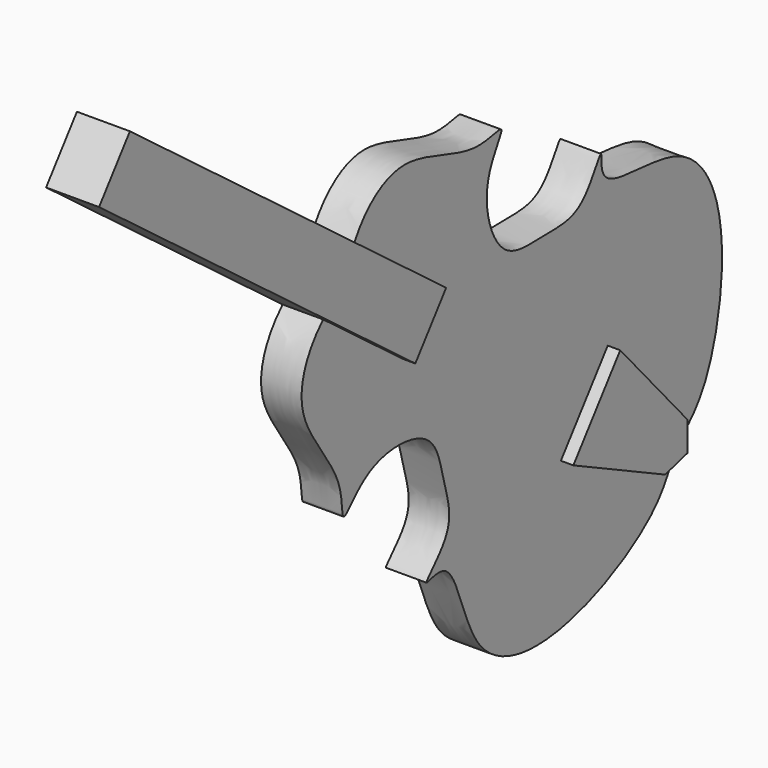
from build123d import *

# Parameters (mm, degrees)
F2_DEPTH = 130
F3_DEPTH = 40


with BuildPart() as f2:
    # F1 (on offset) → F2 (new body)
    with BuildSketch(Plane.YZ.offset(813)):
        with BuildLine():
            Line((999.4249142579, -612.4519876607), (698.8055633336, -385.4921267711))
            add(Edge.make_bspline(
                [(698.8055633336, -385.4921267711), (671.1060649287, -406.2552542845), (643.0647572284, -427.7089960644), (617.7663844082, -452.8637702217)],
                knots=[0, 0, 0, 0, 0.0421401226, 0.0421401226, 0.0421401226, 0.0421401226], degree=3))
            Line((617.7663844082, -452.8637702217), (937.6058578491, -694.3343281746))
            Line((937.6058578491, -694.3343281746), (999.4249142579, -612.4519876607))
        make_face()
        with BuildLine():
            add(Edge.make_bspline(
                [(698.8055633336, -385.4921267711), (711.1878910758, -353.1649302378), (724.1408029752, -320.3198385615), (741.4044972257, -289.0990891938)],
                knots=[0, 0, 0, 0, 0.0421401226, 0.0421401226, 0.0421401226, 0.0421401226], degree=3))
            Line((698.8055633336, -385.4921267711), (999.4249142579, -612.4519876607))
            Line((999.4249142579, -612.4519876607), (1061.2439706666, -530.5696471467))
            Line((1061.2439706666, -530.5696471467), (741.4044972257, -289.0990891938))
        make_face()
        with BuildLine():
            add(Edge.make_bspline(
                [(698.8055633336, -385.4921267711), (671.1060649287, -406.2552542845), (643.0647572284, -427.7089960644), (617.7663844082, -452.8637702217)],
                knots=[0, 0, 0, 0, 0.0421401226, 0.0421401226, 0.0421401226, 0.0421401226], degree=3))
            add(Edge.make_bspline(
                [(698.8055633336, -385.4921267711), (711.1878910758, -353.1649302378), (724.1408029752, -320.3198385615), (741.4044972257, -289.0990891938)],
                knots=[0, 0, 0, 0, 0.0421401226, 0.0421401226, 0.0421401226, 0.0421401226], degree=3))
            Line((741.4044972257, -289.0990891938), (-207.1507677691, 427.0356849894))
            Line((-207.1507677691, 427.0356849894), (-330.7888805866, 263.2710039616))
            Line((-330.7888805866, 263.2710039616), (617.7663844082, -452.8637702217))
        make_face()
        with BuildLine():
            Line((937.6058578491, -694.3343281746), (617.7663844082, -452.8637702217))
            add(Edge.make_bspline(
                [(617.7663844082, -452.8637702217), (603.0674773299, -467.4792433409), (549.2514497202, -529.4693534497), (490.6647836644, -702.8399085595), (708.4098224903, -916.2886762529), (683.0869697858, -1094.3199248133), (794.2669195154, -917.1650156598), (1069.4394474877, -925.4890505955), (1096.4924204543, -1111.0317747842), (1154.712954874, -1256.8577106118), (983.9739857051, -1395.4606408759), (1150.6119749013, -1308.7232329881), (1193.2087810732, -1689.4015206404), (1561.1895868227, -1762.9021480073), (1954.0726253167, -1564.5585240428), (2005.8582656762, -1443.7150180549), (2030.1766318652, -1390.6429647901)],
                knots=[0.0421401226, 0.0421401226, 0.0421401226, 0.0421401226, 0.0666244541, 0.1378096348, 0.2262665584, 0.2770870858, 0.3359332638, 0.4143950395, 0.4795526619, 0.5436961645, 0.6020074764, 0.6446780384, 0.7327918365, 0.8262307087, 0.9312623714, 1, 1, 1, 1], degree=3))
            Line((2030.1766318652, -1390.6429647901), (1939.6473169327, -1415.4891967773))
            Line((1939.6473169327, -1415.4891967773), (1571.457028389, -1239.642739296))
            Line((1571.457028389, -1239.642739296), (1665.383026604, -1115.2331960946))
            Line((1665.383026604, -1115.2331960946), (999.4249142579, -612.4519876607))
            Line((999.4249142579, -612.4519876607), (937.6058578491, -694.3343281746))
        make_face()
        with BuildLine():
            Line((1061.2439706666, -530.5696471467), (999.4249142579, -612.4519876607))
            Line((999.4249142579, -612.4519876607), (1665.383026604, -1115.2331960946))
            Line((1665.383026604, -1115.2331960946), (1759.309024819, -990.8236528932))
            Line((1759.309024819, -990.8236528932), (2029.2770465357, -1296.7702698659))
            Line((2029.2770465357, -1296.7702698659), (2030.1766318652, -1390.6429647901))
            add(Edge.make_bspline(
                [(741.4044972257, -289.0990891938), (751.4350805925, -270.9591520077), (796.3146055209, -202.2222127305), (947.0086286071, -98.3903379294), (1211.9345660626, -249.3457155295), (1376.2219005794, -176.2290686529), (1236.2933644927, -331.6795361585), (1319.6679138823, -594.049302371), (1505.5250417137, -569.248216106), (1661.720876251, -585.3011118349), (1748.2586788817, -383.1284712861), (1710.4797713339, -567.1511642208), (2088.2677129737, -503.8525249179), (2259.7463213881, -837.6298496116), (2176.5968768356, -1269.814353006), (2074.5584447499, -1352.7182966057), (2030.1766318652, -1390.6429647901)],
                knots=[0.0421401226, 0.0421401226, 0.0421401226, 0.0421401226, 0.0666244541, 0.1378096348, 0.2262665584, 0.2770870858, 0.3359332638, 0.4143950395, 0.4795526619, 0.5436961645, 0.6020074764, 0.6446780384, 0.7327918365, 0.8262307087, 0.9312623714, 1, 1, 1, 1], degree=3))
            Line((741.4044972257, -289.0990891938), (1061.2439706666, -530.5696471467))
        make_face()
        Polygon((1939.6473169327, -1415.4891967773), (2030.1766318652, -1390.6429647901), (1665.383026604, -1115.2331960946), (1571.457028389, -1239.642739296), align=None)
        Polygon((1665.383026604, -1115.2331960946), (2030.1766318652, -1390.6429647901), (2029.2770465357, -1296.7702698659), (1759.309024819, -990.8236528932), align=None)
    extrude(amount=-F2_DEPTH)

    # F1 (on offset) → F3 (join)
    with BuildSketch(Plane.YZ.offset(813)):
        Polygon((1665.383026604, -1115.2331960946), (2030.1766318652, -1390.6429647901), (2029.2770465357, -1296.7702698659), (1759.309024819, -990.8236528932), align=None)
        Polygon((1939.6473169327, -1415.4891967773), (2030.1766318652, -1390.6429647901), (1665.383026604, -1115.2331960946), (1571.457028389, -1239.642739296), align=None)
        with BuildLine():
            add(Edge.make_bspline(
                [(698.8055633336, -385.4921267711), (671.1060649287, -406.2552542845), (643.0647572284, -427.7089960644), (617.7663844082, -452.8637702217)],
                knots=[0, 0, 0, 0, 0.0421401226, 0.0421401226, 0.0421401226, 0.0421401226], degree=3))
            add(Edge.make_bspline(
                [(698.8055633336, -385.4921267711), (711.1878910758, -353.1649302378), (724.1408029752, -320.3198385615), (741.4044972257, -289.0990891938)],
                knots=[0, 0, 0, 0, 0.0421401226, 0.0421401226, 0.0421401226, 0.0421401226], degree=3))
            Line((741.4044972257, -289.0990891938), (-207.1507677691, 427.0356849894))
            Line((-207.1507677691, 427.0356849894), (-330.7888805866, 263.2710039616))
            Line((-330.7888805866, 263.2710039616), (617.7663844082, -452.8637702217))
        make_face()
        with BuildLine():
            add(Edge.make_bspline(
                [(698.8055633336, -385.4921267711), (711.1878910758, -353.1649302378), (724.1408029752, -320.3198385615), (741.4044972257, -289.0990891938)],
                knots=[0, 0, 0, 0, 0.0421401226, 0.0421401226, 0.0421401226, 0.0421401226], degree=3))
            Line((698.8055633336, -385.4921267711), (999.4249142579, -612.4519876607))
            Line((999.4249142579, -612.4519876607), (1061.2439706666, -530.5696471467))
            Line((1061.2439706666, -530.5696471467), (741.4044972257, -289.0990891938))
        make_face()
        with BuildLine():
            Line((999.4249142579, -612.4519876607), (698.8055633336, -385.4921267711))
            add(Edge.make_bspline(
                [(698.8055633336, -385.4921267711), (671.1060649287, -406.2552542845), (643.0647572284, -427.7089960644), (617.7663844082, -452.8637702217)],
                knots=[0, 0, 0, 0, 0.0421401226, 0.0421401226, 0.0421401226, 0.0421401226], degree=3))
            Line((617.7663844082, -452.8637702217), (937.6058578491, -694.3343281746))
            Line((937.6058578491, -694.3343281746), (999.4249142579, -612.4519876607))
        make_face()
    extrude(amount=F3_DEPTH)


solid = f2.part
